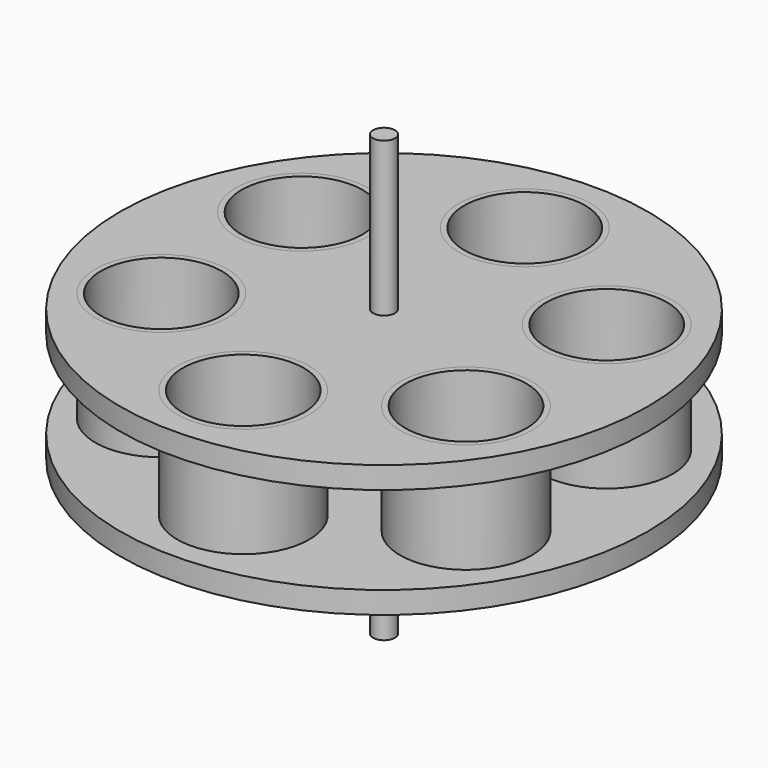
from build123d import *

# Parameters (mm, degrees)
F0_R     = 76.2
F1_DEPTH = 6.35
F2_R     = 19.05
F2_R_2   = 3.175
F3_DEPTH = 6.351
F4_R     = 19.05
F4_R_2   = 17.4625
F5_DEPTH = 38.1
F8_R     = 3.175
F9_DEPTH = 63.5


with BuildPart() as f1:
    # F0 (on Top) → F1 (new body)
    with BuildSketch(Plane.XY):
        Circle(F0_R)
    extrude(amount=F1_DEPTH)

    # F2 (on face) → F3 (cut, through all)
    with BuildSketch(Plane.XY.offset(6.35)):
        with Locations((0, 50.8)):
            Circle(F2_R)
        with Locations((-43.9940905122, 25.4)):
            Circle(F2_R)
        with Locations((-43.9940905122, -25.4)):
            Circle(F2_R)
        with Locations((0, -50.8)):
            Circle(F2_R)
        with Locations((43.9940905122, -25.4)):
            Circle(F2_R)
        with Locations((43.9940905122, 25.4)):
            Circle(F2_R)
        Circle(F2_R_2)
    extrude(amount=-F3_DEPTH, mode=Mode.SUBTRACT)


with BuildPart() as f5:
    # F4 (on face) → F5 (new body)
    with BuildSketch(Plane(origin=(0, 0, 0), x_dir=(1, 0, 0), z_dir=(0, 0, -1))):
        with Locations((0, -50.8)):
            Circle(F4_R)
        with Locations((0, -50.8)):
            Circle(F4_R_2, mode=Mode.SUBTRACT)
    extrude(amount=-F5_DEPTH)


with BuildPart() as f5b:
    # F4 (on face) → F5, piece 2 (new body)
    with BuildSketch(Plane(origin=(0, 0, 0), x_dir=(1, 0, 0), z_dir=(0, 0, -1))):
        with Locations((43.9940905122, -25.4)):
            Circle(F4_R)
        with Locations((43.9940905122, -25.4)):
            Circle(F4_R_2, mode=Mode.SUBTRACT)
    extrude(amount=-F5_DEPTH)


with BuildPart() as f5c:
    # F4 (on face) → F5, piece 3 (new body)
    with BuildSketch(Plane(origin=(0, 0, 0), x_dir=(1, 0, 0), z_dir=(0, 0, -1))):
        with Locations((43.9940905122, 25.4)):
            Circle(F4_R)
        with Locations((43.9940905122, 25.4)):
            Circle(F4_R_2, mode=Mode.SUBTRACT)
    extrude(amount=-F5_DEPTH)


with BuildPart() as f5d:
    # F4 (on face) → F5, piece 4 (new body)
    with BuildSketch(Plane(origin=(0, 0, 0), x_dir=(1, 0, 0), z_dir=(0, 0, -1))):
        with Locations((0, 50.8)):
            Circle(F4_R)
        with Locations((0, 50.8)):
            Circle(F4_R_2, mode=Mode.SUBTRACT)
    extrude(amount=-F5_DEPTH)


with BuildPart() as f5e:
    # F4 (on face) → F5, piece 5 (new body)
    with BuildSketch(Plane(origin=(0, 0, 0), x_dir=(1, 0, 0), z_dir=(0, 0, -1))):
        with Locations((-43.9940905122, 25.4)):
            Circle(F4_R)
        with Locations((-43.9940905122, 25.4)):
            Circle(F4_R_2, mode=Mode.SUBTRACT)
    extrude(amount=-F5_DEPTH)


with BuildPart() as f5f:
    # F4 (on face) → F5, piece 6 (new body)
    with BuildSketch(Plane(origin=(0, 0, 0), x_dir=(1, 0, 0), z_dir=(0, 0, -1))):
        with Locations((-43.9940905122, -25.4)):
            Circle(F4_R)
        with Locations((-43.9940905122, -25.4)):
            Circle(F4_R_2, mode=Mode.SUBTRACT)
    extrude(amount=-F5_DEPTH)


with BuildPart() as f7_1:
    # F7: instance of F1
    add(f1.part.mirror(Plane.XY.offset(19.05)))


with BuildPart() as f9:
    # F8 (on offset) → F9 (new body, symmetric)
    with BuildSketch(Plane.XY.offset(19.05)):
        Circle(F8_R)
    extrude(amount=F9_DEPTH, both=True)


solid = Compound([f1.part, f5.part, f5b.part, f5c.part, f5d.part, f5e.part, f5f.part, f7_1.part, f9.part])
